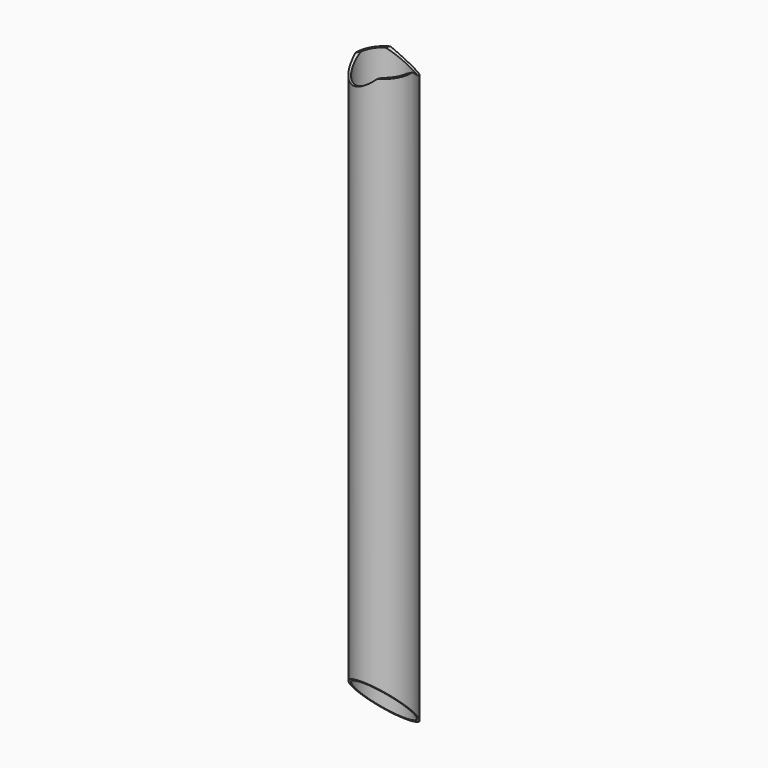
from build123d import *

# Parameters (mm, degrees)
F0_R          = 24.13
F0_R_2        = 22.3012
F1_DEPTH      = 509.5875
F3_DEPTH      = 24.131
F3_DEPTH_BACK = 24.131
F6_R          = 24.13
F7_DEPTH      = 50.8
F7_DEPTH_BACK = 50.8


with BuildPart() as f1:
    # F0 (on Top) → F1 (new body)
    with BuildSketch(Plane.XY):
        Circle(F0_R)
        Circle(F0_R_2, mode=Mode.SUBTRACT)
    extrude(amount=F1_DEPTH)

    # F2 (on Right) → F3 (cut, two sides)
    with BuildSketch(Plane.YZ) as f3_sk:
        Polygon((-24.13, 48.26), (-24.13, 0), (24.13, 0), align=None)
    extrude(amount=-F3_DEPTH, mode=Mode.SUBTRACT)
    extrude(f3_sk.sketch, amount=F3_DEPTH_BACK, mode=Mode.SUBTRACT)

    # F6 (on line) → F7 (cut, two sides)
    with BuildSketch(Plane(origin=(0, 0, 0), x_dir=(0.8660254038, -0.5, 0), z_dir=(-0.5, -0.8660254038, 0))) as f7_sk:
        with Locations((0, 522.2875)):
            Circle(F6_R)
    extrude(amount=-F7_DEPTH, mode=Mode.SUBTRACT)
    extrude(f7_sk.sketch, amount=F7_DEPTH_BACK, mode=Mode.SUBTRACT)


solid = f1.part
